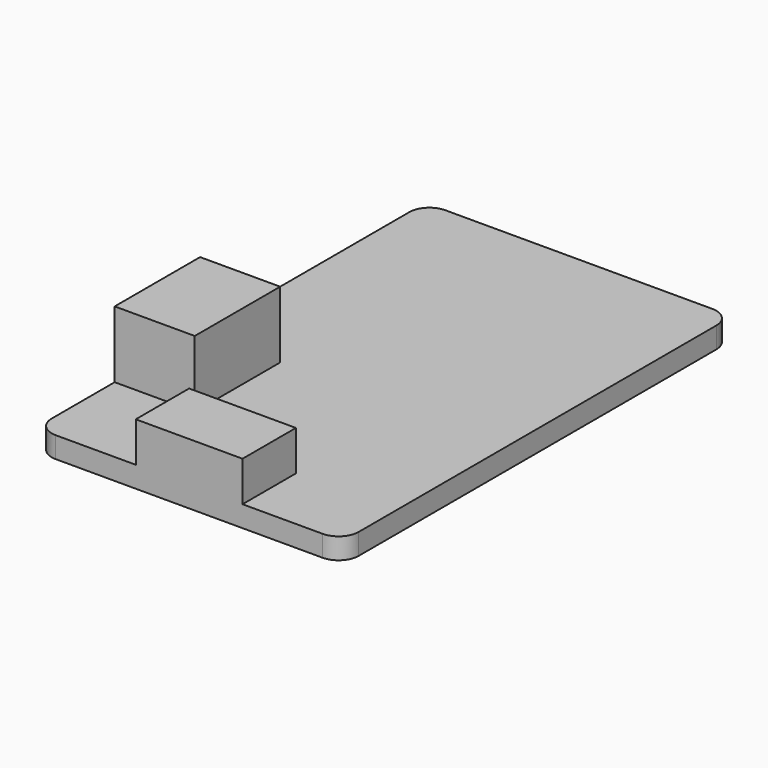
from build123d import *

# Parameters (mm, degrees)
F0_W     = 23
F0_H     = 36.5
F1_DEPTH = 1.58
F2_W     = 8
F2_H     = 5
F3_DEPTH = 3
F2_W_2   = 6
F2_H_2   = 8
F4_DEPTH = 5
F5_R     = 1.5


with BuildPart() as f1:
    # F0 (on Top) → F1 (new body)
    with BuildSketch(Plane.XY):
        Rectangle(F0_W, F0_H)
    extrude(amount=F1_DEPTH)

    # F2 (on face) → F3 (join)
    with BuildSketch(Plane.XY.offset(1.58)):
        with Locations((0, -15.75)):
            Rectangle(F2_W, F2_H)
    extrude(amount=F3_DEPTH)

    # F2 (on face) → F4 (join)
    with BuildSketch(Plane.XY.offset(1.58)):
        with Locations((-8.5, -6.85)):
            Rectangle(F2_W_2, F2_H_2)
    extrude(amount=F4_DEPTH)

    # F5
    f5_edges = [f1.edges().sort_by_distance(p)[0] for p in [
        (-11.5, -18.25, 0.79),
        (11.5, -18.25, 0.79),
        (11.5, 18.25, 0.79),
        (-11.5, 18.25, 0.79),
    ]]
    fillet(f5_edges, radius=F5_R)


solid = f1.part
